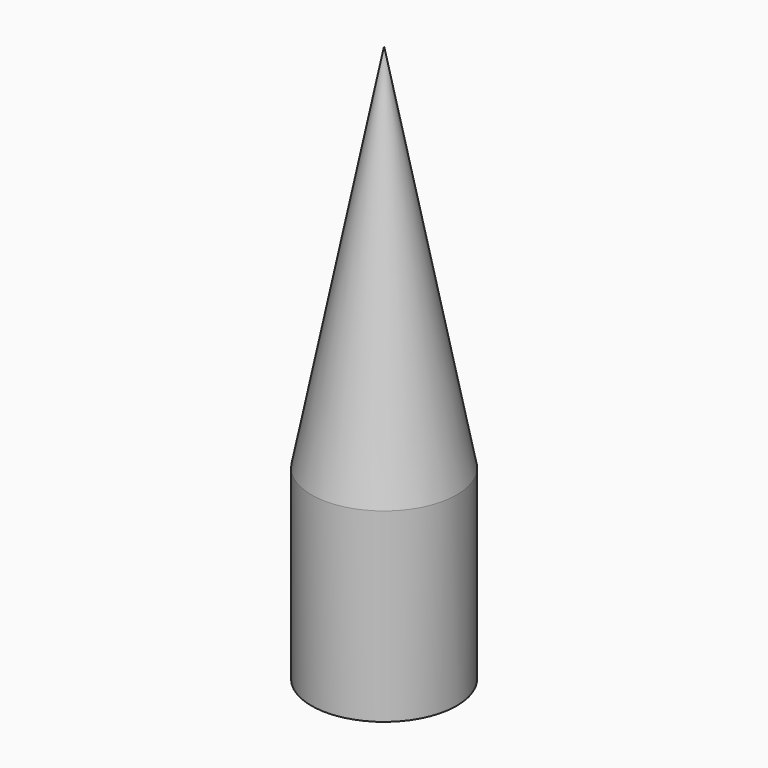
from build123d import *

# Parameters (mm, degrees)
F2_R     = 19.571
F2_R_2   = 16.315882
F3_DEPTH = 50


with BuildPart() as f1:
    # F0 (on Front) → F1 (revolve)
    with BuildSketch(Plane.XZ):
        Polygon((0, 100), (0, 0), (19.571, 0), align=None)
    revolve(axis=Axis((0, 0, 50), (0, 0, 1)))

    # F2 (on face) → F3 (join)
    with BuildSketch(Plane(origin=(0, 0, 0), x_dir=(1, 0, 0), z_dir=(0, 0, -1))):
        Circle(F2_R)
        Circle(F2_R_2, mode=Mode.SUBTRACT)
    extrude(amount=F3_DEPTH)


solid = f1.part
